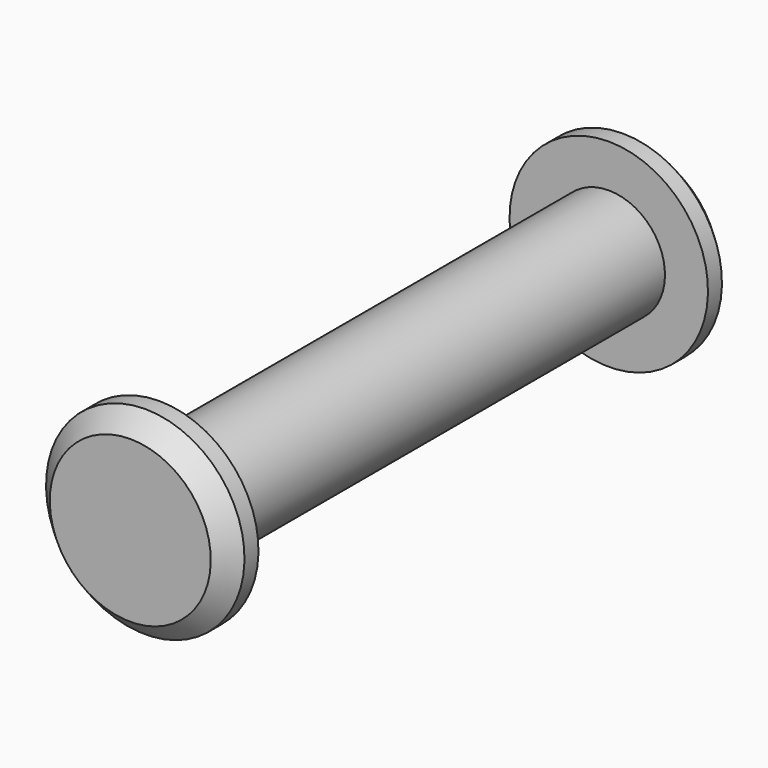
from build123d import *

# Parameters (mm, degrees)
F2_SIZE = 2


with BuildPart() as f1:
    # F0 (on Right) → F1 (revolve)
    with BuildSketch(Plane.YZ):
        Polygon((-33.866643, 10.595746), (-33.866643, 0), (0, 0), (33.866643, 0), (33.866643, 10.595746), (30, 10.595746), (30, 6), (0, 6), (-30, 6), (-30, 10.595746), align=None)
    revolve(axis=Axis((0, -16.933322, 0), (0, -1, 0)))

    # F2
    f2_edges = [f1.edges().sort_by_distance(p)[0] for p in [
        (0, -33.866643, -10.595746),
        (0, 33.866643, -10.595746),
    ]]
    chamfer(f2_edges, length=F2_SIZE)


solid = f1.part
